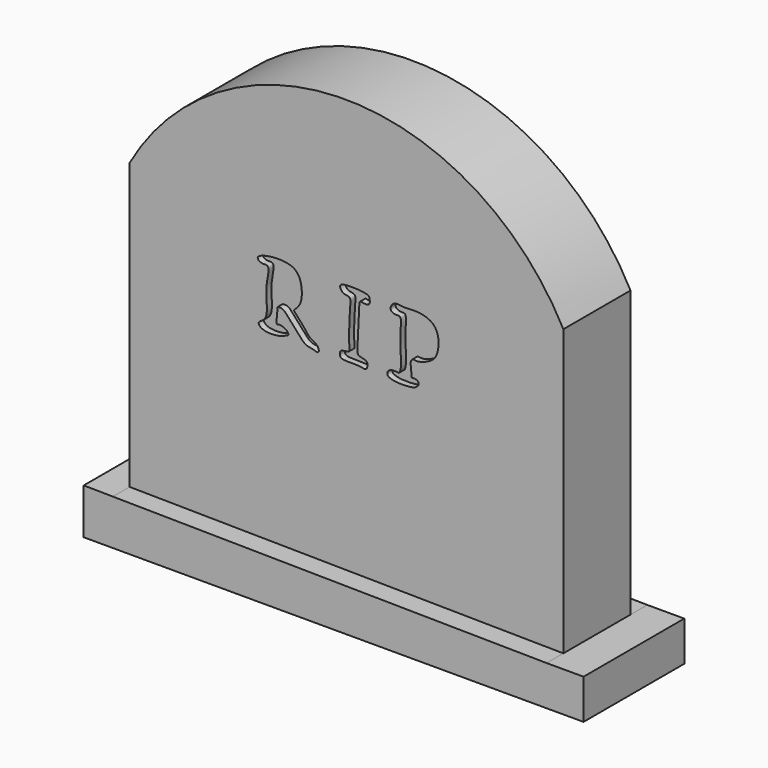
from build123d import *

# Parameters (mm, degrees)
F1_DEPTH = 2.5
F2_DEPTH = 3.75
F4_DEPTH = 20
F6_DEPTH = 1


with BuildPart() as f1:
    # F0 (on Front) → F1 (new body, symmetric)
    with BuildSketch(Plane.XZ):
        with BuildLine():
            Line((30.2209725837, 14.4558448693), (30.2209725837, 31.4558448693))
            ThreePointArc((30.2209725837, 31.4558448693), (17.3999306678, 39.2879493287), (4.3845460116, 31.7832349221))
            Line((4.3845460116, 31.7832349221), (4.3845460116, 14.7832349221))
            Line((4.3845460116, 14.7832349221), (30.2209725837, 14.4558448693))
        make_face()
    extrude(amount=F1_DEPTH, both=True)

    # F0 (on Front) → F2 (join, symmetric)
    with BuildSketch(Plane.XZ):
        Polygon((32.4227958918, 14.4558448693), (30.2209725837, 14.4558448693), (4.3845460116, 14.7832349221), (2.6475321296, 14.8052457472), (2.6475321296, 12.0841860771), (32.4227958918, 12.0841860771), align=None)
    extrude(amount=F2_DEPTH, both=True)

    # F3 (on face) → F4 (cut)
    with BuildSketch(Plane(origin=(0, 0, 12.0841860771), x_dir=(1, 0, 0), z_dir=(0, 0, -1))):
        Polygon((5.0000450574, 2.125752857), (5.0000450574, 1.5152890701), (5.0000450574, -2.0794656593), (29.6219065785, -2.0794656593), (29.6219065785, 2.125752857), align=None)
    extrude(amount=-F4_DEPTH, mode=Mode.SUBTRACT)

    # F5 (on face) → F6 (cut)
    with BuildSketch(Plane.XZ.offset(2.5)):
        with BuildLine():
            add(Edge.make_bspline(
                [(12.4489627779, 29.5294672251), (12.7438828783, 29.604024804), (13.3468252322, 29.6530780265), (14.1930207141, 29.51977164), (14.5767842189, 29.0027550674), (14.6735444462, 28.2534744915), (14.5868206614, 27.6284708445), (14.1895619402, 27.2545209239), (14.1504655853, 27.202683587), (14.8431681687, 26.5037172516), (15.066361811, 26.0604209474), (15.6092357811, 25.904690392), (15.7145279163, 25.3887440475), (15.2360930208, 25.6004963235), (14.8036898064, 25.5693296613), (14.1649747391, 26.434590872), (13.8266350776, 26.7353339825), (13.5319786833, 27.1358371747), (13.1436571053, 27.0905791082), (13.22443398, 27.0018869675), (13.0591912914, 26.0848746989), (13.2984278509, 26.2278155299), (13.7014089611, 26.1031610373), (13.9103469872, 25.8241398512), (13.6177255173, 25.7114017694), (13.1950128368, 25.5287330729), (12.2310547998, 25.5416116939), (11.9651676309, 25.9713866654), (12.5728463645, 26.125635906), (12.5672689063, 27.1637507211), (12.4597162876, 27.94913628), (12.80248764, 29.1885577338), (12.2385961987, 29.0070273474), (11.8599187912, 29.32889495), (12.2319315621, 29.4746004257), (12.4489627779, 29.5294672251)],
                knots=[0, 0, 0, 0, 0.0413924708, 0.0801680066, 0.1131233023, 0.1501497015, 0.18514604, 0.2150463779, 0.2231499517, 0.2641521759, 0.2967335657, 0.3276166659, 0.3517750382, 0.3774719416, 0.4062330085, 0.4493330125, 0.4799043908, 0.5093735349, 0.5323090284, 0.544278522, 0.5829801545, 0.5984594085, 0.6267634328, 0.6486964072, 0.6687585772, 0.6993078957, 0.7410750995, 0.7648454916, 0.7932081918, 0.834333077, 0.8765576926, 0.9192123662, 0.9455607762, 0.969539349, 1, 1, 1, 1], degree=3))
        make_face()
        with BuildLine():
            add(Edge.make_bspline(
                [(17.0835927129, 29.5294672251), (17.4103496898, 29.6087041903), (18.637949731, 29.5536257482), (18.6756117583, 29.3165848547), (18.7280148329, 28.9169790136), (18.2820974355, 28.9413207246), (18.085960728, 29.0176502162), (18.0273589539, 28.631009231), (18.0053373799, 26.8309937888), (17.9013383815, 26.1148556544), (18.2135344354, 26.0587292888), (18.6205598918, 25.9676682775), (18.504488325, 25.4282035814), (18.0743232651, 25.6433159019), (17.0225911617, 25.5161796699), (16.8747821625, 25.785327514), (16.9370918991, 26.1125259199), (17.546714048, 26.049128977), (17.4154857244, 26.5279226936), (17.4836865948, 28.3274509276), (17.5920725469, 29.0654810184), (17.081153616, 29.003736316), (16.8656322694, 29.3883370345), (16.9562628418, 29.4985903555), (17.0835927129, 29.5294672251)],
                knots=[0, 0, 0, 0, 0.0795134938, 0.1084783575, 0.1443198724, 0.1836195177, 0.2100266711, 0.2447133558, 0.3349203794, 0.3872191835, 0.4193091301, 0.458256761, 0.4967403399, 0.5377381303, 0.6039650698, 0.6353447486, 0.6679608268, 0.7116108295, 0.7498974067, 0.8402793827, 0.8908582289, 0.9303383814, 0.9690153734, 1, 1, 1, 1], degree=3))
        make_face()
        with BuildLine():
            add(Edge.make_bspline(
                [(20.5874145031, 29.5294672251), (20.405744903, 29.5448433755), (20.1360917611, 29.6430661355), (19.8066003518, 29.1434403331), (20.1878790673, 28.9259027528), (20.5979130696, 29.0460081237), (20.5125399548, 28.1860688802), (20.4897361942, 27.4092419865), (20.5796319416, 26.726871514), (20.5154885247, 25.9204741282), (20.2706844653, 26.0104665652), (19.8268166002, 26.0072519471), (19.6439062156, 25.6185012373), (20.0800889346, 25.4609116443), (20.4811012372, 25.4272727429), (21.0266768266, 25.4372208002), (21.4861978661, 25.526423668), (21.6902414003, 25.8674915831), (21.3419955203, 26.0187574723), (21.1293355741, 25.9467055865), (21.20600514, 26.1548692986), (21.0608929171, 26.768696144), (21.2385824496, 27.0007312129), (21.5418712152, 26.8799249852), (22.3256251062, 27.179381189), (22.7370181699, 27.6034657323), (22.8455925524, 28.5639312268), (22.5309222289, 29.2911636942), (21.588533825, 29.6131612276), (20.8587492734, 29.5065019945), (20.5874145031, 29.5294672251)],
                knots=[0, 0, 0, 0, 0.0347134845, 0.0682535556, 0.0981412443, 0.126357015, 0.1694233468, 0.2170511772, 0.2622121451, 0.3046850624, 0.326227701, 0.3600991947, 0.3881682506, 0.4195493507, 0.4537063764, 0.4922276346, 0.5277418975, 0.5550536741, 0.5836613797, 0.6046444807, 0.6244787233, 0.6661830032, 0.6903657555, 0.7176028706, 0.7641107888, 0.8040080374, 0.8534670967, 0.8979195487, 0.9481532665, 1, 1, 1, 1], degree=3))
        make_face()
    extrude(amount=-F6_DEPTH, mode=Mode.SUBTRACT)


solid = f1.part
